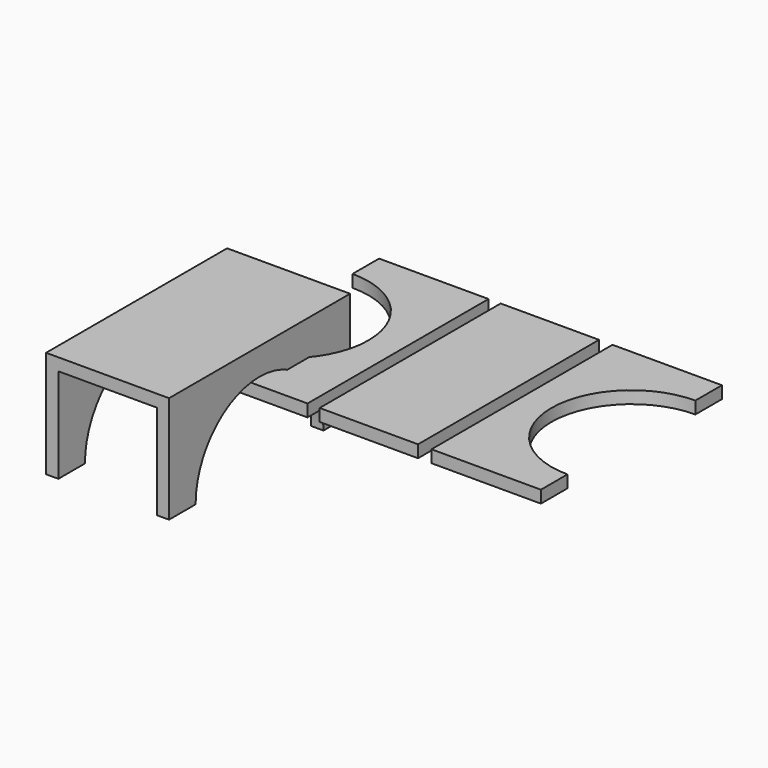
from build123d import *

# Parameters (mm, degrees)
F1_DEPTH = 46
F3_DEPTH = 54
F4_W     = 40
F4_H     = 92
F5_DEPTH = 5


with BuildPart() as f1:
    # F0 (on Front) → F1 (new body, symmetric)
    with BuildSketch(Plane.XZ):
        Polygon((25, -24.25), (25, 19.25), (-25, 19.25), (-25, -24.25), (-20, -24.25), (-20, 14.25), (20, 14.25), (20, -24.25), align=None)
    extrude(amount=F1_DEPTH, both=True)

    # F2 (on face) → F3 (cut)
    with BuildSketch(Plane.YZ.offset(25)):
        with BuildLine():
            Line((-32.5, -24.25), (32.5, -24.25))
            ThreePointArc((32.5, -24.25), (0, 8.25), (-32.5, -24.25))
        make_face()
    extrude(amount=-F3_DEPTH, mode=Mode.SUBTRACT)


with BuildPart() as f5:
    # F4 (on Top) → F5 (new body)
    with BuildSketch(Plane.XY):
        with BuildLine():
            Line((0, 13.5), (0, 0))
            Line((0, 0), (44.5, 0))
            Line((44.5, 0), (44.5, 92))
            Line((44.5, 92), (0, 92))
            Line((0, 92), (0, 78.5))
            ThreePointArc((0, 78.5), (32.5, 46), (0, 13.5))
        make_face()
        with BuildLine():
            Line((94.9, 0), (139.4, 0))
            Line((139.4, 0), (139.4, 13.5))
            ThreePointArc((139.4, 13.5), (106.9, 46), (139.4, 78.5))
            Line((139.4, 78.5), (139.4, 92))
            Line((139.4, 92), (94.9, 92))
            Line((94.9, 92), (94.9, 0))
        make_face()
        with Locations((69.43582, 46)):
            Rectangle(F4_W, F4_H)
    extrude(amount=F5_DEPTH)


solid = Compound([f1.part, f5.part])
